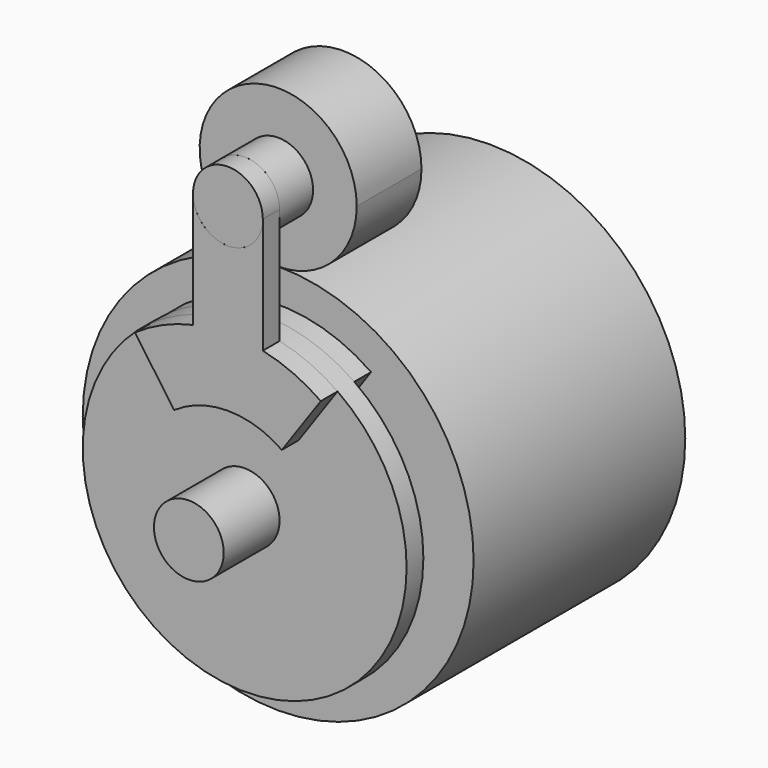
from build123d import *

# Parameters (mm, degrees)
F0_R      = 35.56
F1_DEPTH  = 48.133
F3_DEPTH  = 14.732
F4_R      = 6.34746
F5_DEPTH  = 3.81
F7_DEPTH  = 3.81
F8_R      = 6.34746
F9_DEPTH  = 7.62
F10_R     = 29.464
F11_DEPTH = 3.81
F12_R     = 6.34746
F13_DEPTH = 12.7
F15_DEPTH = 3.81
F17_DEPTH = 3.81
F19_DEPTH = 3.81


with BuildPart() as f1:
    # F0 (on Front) → F1 (new body)
    with BuildSketch(Plane.XZ):
        Circle(F0_R)
    extrude(amount=F1_DEPTH)

    # F2 (on face) → F3 (join)
    with BuildSketch(Plane.XZ.offset(48.133)):
        with BuildLine():
            ThreePointArc((7.5e-09, 35.56), (10.1027881389, 39.7447118665), (14.2875, 49.8475))
            ThreePointArc((14.2875, 49.8475), (-10.1027881389, 59.9502881335), (7.5e-09, 35.56))
        make_face()
    extrude(amount=-F3_DEPTH)

    # F4 (on face) → F5 (join)
    with BuildSketch(Plane.XZ.offset(48.133)):
        Circle(F4_R)
    extrude(amount=F5_DEPTH)

    # F6 (on face) → F7 (join)
    with BuildSketch(Plane.XZ.offset(48.133)):
        with BuildLine():
            ThreePointArc((-9.8048303183, 14.0027488755), (0, 17.0942), (9.8048303183, 14.0027488755))
            Line((9.8048303183, 14.0027488755), (16.8998561206, 24.1354958329))
            ThreePointArc((16.8998561206, 24.1354958329), (0, 29.464), (-16.8998561206, 24.1354958329))
            Line((-16.8998561206, 24.1354958329), (-9.8048303183, 14.0027488755))
        make_face()
    extrude(amount=F7_DEPTH)

    # F8 (on face) → F9 (join)
    with BuildSketch(Plane.XZ.offset(48.133)):
        with Locations((0, 49.8475)):
            Circle(F8_R)
    extrude(amount=F9_DEPTH)

    # F10 (on face) → F11 (join)
    with BuildSketch(Plane.XZ.offset(51.943)):
        Circle(F10_R)
    extrude(amount=F11_DEPTH)

    # F12 (on face) → F13 (join)
    with BuildSketch(Plane.XZ.offset(55.753)):
        Circle(F12_R)
    extrude(amount=F13_DEPTH)

    # F14 (on face) → F15 (join)
    with BuildSketch(Plane.XZ.offset(55.753)):
        with BuildLine():
            ThreePointArc((-9.8048303183, 14.0027488755), (0, 17.0942), (9.8048303183, 14.0027488755))
            Line((9.8048303183, 14.0027488755), (16.8998561206, 24.1354958329))
            ThreePointArc((16.8998561206, 24.1354958329), (0, 29.464), (-16.8998561206, 24.1354958329))
            Line((-16.8998561206, 24.1354958329), (-9.8048303183, 14.0027488755))
        make_face()
    extrude(amount=F15_DEPTH)

    # F16 (on face) → F17 (join)
    with BuildSketch(Plane.XZ.offset(55.753)):
        with BuildLine():
            ThreePointArc((6.34746, 49.8475), (0, 43.50004), (-6.34746, 49.8475))
            Line((-6.34746, 49.8475), (-6.34746, 17.1236544847))
            Line((-6.34746, 17.1236544847), (6.34746, 17.1236544847))
            Line((6.34746, 17.1236544847), (6.34746, 49.8475))
        make_face()
    extrude(amount=F17_DEPTH)


with BuildPart() as f19:
    # F18 (on face) → F19 (new body)
    with BuildSketch(Plane.XZ.offset(59.563)):
        with BuildLine():
            ThreePointArc((-6.34746, 49.8475), (0, 43.50004), (6.34746, 49.8475))
            ThreePointArc((6.34746, 49.8475), (0, 56.19496), (-6.34746, 49.8475))
        make_face()
    extrude(amount=-F19_DEPTH)


solid = Compound([f1.part, f19.part])
